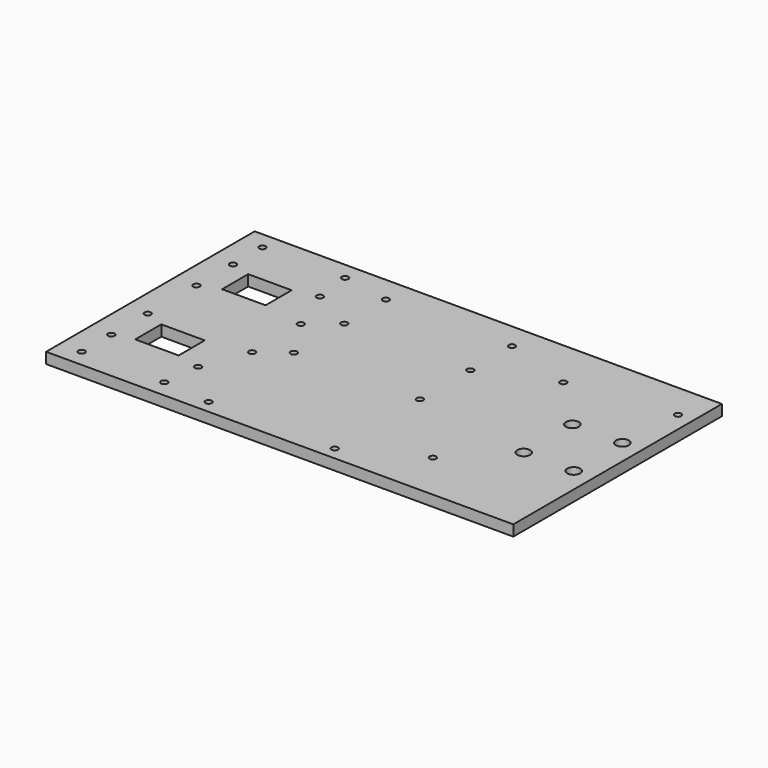
from build123d import *

# Parameters (mm, degrees)
F0_W      = 215
F0_H      = 120
F1_DEPTH  = 5
F2_R      = 1.5
F2_W      = 20
F2_H      = 15
F3_DEPTH  = 25
F4_R      = 1.5
F5_DEPTH  = 5.001
F6_R      = 3
F7_DEPTH  = 5.001
F8_R      = 1.5
F9_DEPTH  = 5.001
F10_R     = 1.5
F11_DEPTH = 5.001
F12_R     = 1.5
F13_DEPTH = 5.001
F14_R     = 1.5
F15_DEPTH = 5.001


with BuildPart() as f1:
    # F0 (on Top) → F1 (new body)
    with BuildSketch(Plane.XY):
        Rectangle(F0_W, F0_H)
    extrude(amount=F1_DEPTH)

    # F2 (on face) → F3 (cut)
    with BuildSketch(Plane.XY.offset(5)):
        with Locations((-97.5, 52)):
            Circle(F2_R)
        with Locations((-59.5, 52)):
            Circle(F2_R)
        with Locations((-97.5, -52)):
            Circle(F2_R)
        with Locations((-59.5, -52)):
            Circle(F2_R)
        with Locations((-78.5, 25)):
            Rectangle(F2_W, F2_H)
        with Locations((-78.5, -25)):
            Rectangle(F2_W, F2_H)
    extrude(amount=-F3_DEPTH, mode=Mode.SUBTRACT)

    # F4 (on face) → F5 (cut, through all)
    with BuildSketch(Plane.XY.offset(5)):
        with Locations((-37.5, -54)):
            Circle(F4_R)
        with Locations((-37.5, -5)):
            Circle(F4_R)
        with Locations((20.5, -54)):
            Circle(F4_R)
        with Locations((20.5, -5)):
            Circle(F4_R)
    extrude(amount=-F5_DEPTH, mode=Mode.SUBTRACT)

    # F6 (on face) → F7 (cut, through all)
    with BuildSketch(Plane(origin=(0, 0, 0), x_dir=(1, 0, 0), z_dir=(0, 0, -1))):
        with Locations((98.5, -14)):
            Circle(F6_R)
        with Locations((98.5, 14)):
            Circle(F6_R)
        with Locations((75.5, -14)):
            Circle(F6_R)
        with Locations((75.5, 14)):
            Circle(F6_R)
    extrude(amount=-F7_DEPTH, mode=Mode.SUBTRACT)

    # F8 (on face) → F9 (cut, through all)
    with BuildSketch(Plane.XY.offset(5)):
        with Locations((-37.5, 48)):
            Circle(F8_R)
        with Locations((-37.5, 24)):
            Circle(F8_R)
        with Locations((20.5, 48)):
            Circle(F8_R)
        with Locations((20.5, 24)):
            Circle(F8_R)
    extrude(amount=-F9_DEPTH, mode=Mode.SUBTRACT)

    # F10 (on face) → F11 (cut, through all)
    with BuildSketch(Plane.XY.offset(5)):
        with Locations((-97.5, 14)):
            Circle(F10_R)
        with Locations((-97.5, -14)):
            Circle(F10_R)
        with Locations((-49.5, 14)):
            Circle(F10_R)
        with Locations((-49.5, -14)):
            Circle(F10_R)
    extrude(amount=-F11_DEPTH, mode=Mode.SUBTRACT)

    # F12 (on face) → F13 (cut, through all)
    with BuildSketch(Plane.XY.offset(5)):
        with Locations((-57.5, 35)):
            Circle(F12_R)
        with Locations((-57.5, -35)):
            Circle(F12_R)
        with Locations((-97.5, 35)):
            Circle(F12_R)
        with Locations((-97.5, -35)):
            Circle(F12_R)
    extrude(amount=-F13_DEPTH, mode=Mode.SUBTRACT)

    # F14 (on face) → F15 (cut, through all)
    with BuildSketch(Plane.XY.offset(5)):
        with Locations((52.5, 37.5)):
            Circle(F14_R)
        with Locations((100.5, 43.5)):
            Circle(F14_R)
        with Locations((52.5, -37.5)):
            Circle(F14_R)
    extrude(amount=-F15_DEPTH, mode=Mode.SUBTRACT)


solid = f1.part
